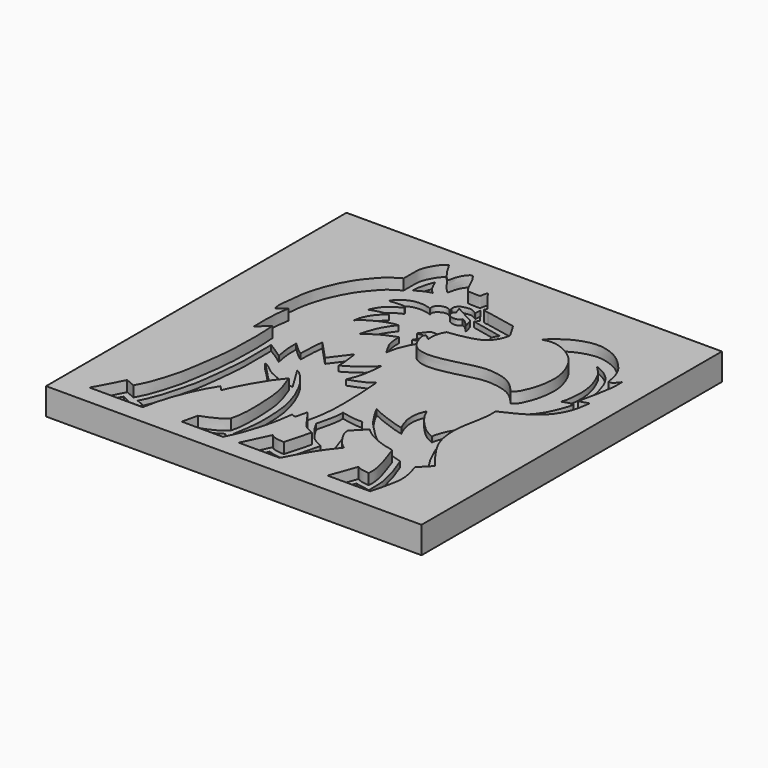
from build123d import *

# Parameters (mm, degrees)
F0_W     = 70
F0_H     = 70
F1_DEPTH = 5
F3_DEPTH = 2
F5_DEPTH = 1


with BuildPart() as f1:
    # F0 (on Top) → F1 (new body)
    with BuildSketch(Plane.XY):
        with Locations((35, 35)):
            Rectangle(F0_W, F0_H)
    extrude(amount=F1_DEPTH)

    # F2 (on face) → F3 (cut)
    with BuildSketch(Plane.XY.offset(5)):
        with BuildLine():
            add(Edge.make_bspline(
                [(21.9445675611, 66.4994418621), (22.135272792, 66.1545466106), (22.5276379381, 65.4449442825), (23.2096851628, 64.3556643856), (24.1875484752, 63.0917913752), (24.746066546, 62.5073244214), (24.9757987878, 62.8666854523), (25.0688827315, 63.8056967795), (25.6479950725, 65.110952337), (26.6196107389, 66.2566464735), (27.2027139759, 65.4415678903), (27.906010691, 64.3383885825), (28.9813621268, 61.5899714603), (29.8997602686, 61.7587426518), (31.5847555917, 61.5656473048), (31.5916341188, 61.8525073235), (31.9127281766, 63.3109758657), (32.1780240525, 62.622427233), (33.6774795781, 60.8407112245), (34.5627240226, 59.6818429336), (35.0018888712, 59.1069348156)],
                knots=[0, 0, 0, 0, 0.0567545631, 0.1167692796, 0.1844378938, 0.2257057522, 0.252289544, 0.302315972, 0.367677872, 0.4245328788, 0.4669126023, 0.5307407196, 0.6161022594, 0.6646861339, 0.7288577772, 0.7547032615, 0.8117135602, 0.8405965096, 0.9209208144, 1, 1, 1, 1], degree=3))
            add(Edge.make_bspline(
                [(19.4208975881, 59.0646974742), (19.4270721721, 59.7106535816), (19.4381218591, 60.8666201835), (19.3630063162, 62.0231640032), (19.7254179036, 63.7850150906), (21.0313269385, 65.8871146656), (21.6857844701, 66.3259279812), (21.9445675611, 66.4994418621)],
                knots=[0, 0, 0, 0, 0.2122797589, 0.3798838786, 0.5911332128, 0.8383274607, 1, 1, 1, 1], degree=3))
            add(Edge.make_bspline(
                [(10.7459481806, 39.90534693), (10.6324803003, 40.2776271106), (10.3694902884, 41.1404789496), (10.8163734324, 43.3479503265), (10.8415925729, 45.1672448725), (11.4818521306, 48.1221347458), (12.5589041058, 51.0977332369), (14.1762227134, 54.2165137907), (16.0927457542, 56.4417768714), (17.2576733436, 57.7801948917), (18.658132453, 58.6117745799), (19.4208975881, 59.0646974742)],
                knots=[0, 0, 0, 0, 0.0800348346, 0.1855006198, 0.2837689427, 0.4064342804, 0.5355647592, 0.6706320469, 0.7921622425, 0.8868004113, 1, 1, 1, 1], degree=3))
            add(Edge.make_bspline(
                [(12.2671257704, 41.1301888525), (11.7600665738, 40.7219082117), (11.2530073772, 40.3136275709), (10.7459481806, 39.90534693)],
                knots=[0, 0, 0, 0, 1.9530025589, 1.9530025589, 1.9530025589, 1.9530025589], degree=3))
            add(Edge.make_bspline(
                [(11.8720140308, 33.563811332), (11.8758869993, 33.9049260555), (11.8859967884, 34.7953536279), (11.771742779, 37.8719061439), (12.0987826487, 40.0229455838), (12.2671257704, 41.1301888525)],
                knots=[0, 0, 0, 0, 0.2315577286, 0.6044458709, 1, 1, 1, 1], degree=3))
            add(Edge.make_bspline(
                [(13.8870803639, 35.4208350182), (13.2153915862, 34.8018271228), (12.5437028085, 34.1828192274), (11.8720140308, 33.563811332)],
                knots=[0, 0, 0, 0, 2.7402608084, 2.7402608084, 2.7402608084, 2.7402608084], degree=3))
            add(Edge.make_bspline(
                [(9.7779259086, 8.1384237856), (10.0566173922, 8.6643415405), (10.6186691277, 9.7249874673), (11.2912982405, 11.3563933679), (12.6311524998, 15.7116494995), (13.1152050215, 19.1898574775), (13.912680283, 24.2160128265), (14.0221937444, 28.4317445059), (14.114366967, 31.5271506813), (13.9658190737, 34.0719491762), (13.8870803639, 35.4208350182)],
                knots=[0, 0, 0, 0, 0.0894477025, 0.1803938742, 0.3230870776, 0.4543958516, 0.6070384967, 0.7468895526, 0.8658372757, 1, 1, 1, 1], degree=3))
            add(Edge.make_bspline(
                [(8.0196829513, 8.8909044862), (8.605763937, 8.640077586), (9.1918449228, 8.3892506858), (9.7779259086, 8.1384237856)],
                knots=[0, 0, 0, 0, 1.91249719, 1.91249719, 1.91249719, 1.91249719], degree=3))
            add(Edge.make_bspline(
                [(5.2143950015, 3.5907232668), (5.5295966136, 4.1399776574), (6.2798980491, 5.4474149992), (7.3810974106, 7.6269766334), (8.0196829513, 8.8909044862)],
                knots=[0, 0, 0, 0, 0.420099972, 1, 1, 1, 1], degree=3))
            add(Edge.make_bspline(
                [(15.1316793635, 3.5907232668), (11.8259179095, 3.5907232668), (8.5201564555, 3.5907232668), (5.2143950015, 3.5907232668)],
                knots=[0, 0, 0, 0, 9.917284362, 9.917284362, 9.917284362, 9.917284362], degree=3))
            add(Edge.make_bspline(
                [(19.8532547802, 15.8628411591), (19.5554210628, 15.3871720898), (18.9752533749, 14.4605885364), (18.2712852625, 13.1670753882), (16.9810136952, 10.3365579247), (15.8027756821, 6.9816773852), (15.3531652213, 4.7098597615), (15.1316793635, 3.5907232668)],
                knots=[0, 0, 0, 0, 0.1593208335, 0.310350354, 0.5287917274, 0.7678746881, 1, 1, 1, 1], degree=3))
            add(Edge.make_bspline(
                [(20.7027457654, 14.8948207498), (20.4195821037, 15.2174942195), (20.1364184419, 15.5401676893), (19.8532547802, 15.8628411591)],
                knots=[0, 0, 0, 0, 1.2879046731, 1.2879046731, 1.2879046731, 1.2879046731], degree=3))
            add(Edge.make_bspline(
                [(26.0564982891, 24.002129212), (25.6146017064, 23.4688698818), (24.5420072506, 22.1745149953), (22.0639043028, 18.1103485243), (21.1341005136, 15.913830024), (20.7027457654, 14.8948207498)],
                knots=[0, 0, 0, 0, 0.2730459275, 0.6627513305, 1, 1, 1, 1], degree=3))
            add(Edge.make_bspline(
                [(27.3487437516, 8.8909044862), (27.4873332305, 9.4662236742), (27.8061018687, 10.7895110954), (27.907951378, 13.9188617622), (27.6944648753, 18.0131966035), (27.2621891506, 20.7241755274), (26.4730917392, 22.8695221082), (26.0564982891, 24.002129212)],
                knots=[0, 0, 0, 0, 0.1572730303, 0.361742537, 0.594924974, 0.7861460446, 1, 1, 1, 1], degree=3))
            add(Edge.make_bspline(
                [(23.0793636292, 6.5153362229), (23.5281547648, 6.671261679), (24.5195202875, 7.0156961141), (26.5636665434, 8.0376590677), (27.1188411997, 8.6410395085), (27.3487437516, 8.8909044862)],
                knots=[0, 0, 0, 0, 0.3264273874, 0.7210678463, 1, 1, 1, 1], degree=3))
            add(Edge.make_bspline(
                [(22.4148705602, 3.5907232668), (22.6363682499, 4.5655942522), (22.8578659395, 5.5404652376), (23.0793636292, 6.5153362229)],
                knots=[0, 0, 0, 0, 2.9991518771, 2.9991518771, 2.9991518771, 2.9991518771], degree=3))
            add(Edge.make_bspline(
                [(30.0897862762, 3.5907232668), (27.5314810375, 3.5907232668), (24.9731757989, 3.5907232668), (22.4148705602, 3.5907232668)],
                knots=[0, 0, 0, 0, 7.6749157161, 7.6749157161, 7.6749157161, 7.6749157161], degree=3))
            add(Edge.make_bspline(
                [(33.5568413138, 15.4214361683), (33.4959111328, 14.9047794685), (33.3506754153, 13.6732550383), (32.7739956771, 10.5418778603), (31.4327060542, 6.3004911645), (30.5058204714, 4.4302046155), (30.0897862762, 3.5907232668)],
                knots=[0, 0, 0, 0, 0.1864017772, 0.4443150406, 0.7505798459, 1, 1, 1, 1], degree=3))
            add(Edge.make_bspline(
                [(34.3470647931, 15.0658357888), (34.0836569667, 15.1843692486), (33.8202491403, 15.3029027085), (33.5568413138, 15.4214361683)],
                knots=[0, 0, 0, 0, 0.8665476196, 0.8665476196, 0.8665476196, 0.8665476196], degree=3))
            add(Edge.make_bspline(
                [(34.8804630339, 17.3574797809), (34.7026636203, 16.5935984502), (34.5248642067, 15.8297171195), (34.3470647931, 15.0658357888)],
                knots=[0, 0, 0, 0, 2.3529015852, 2.3529015852, 2.3529015852, 2.3529015852], degree=3))
            add(Edge.make_bspline(
                [(39.345216006, 12.7346813679), (38.726311174, 13.0074071954), (37.5648023274, 13.5192362278), (36.772512202, 14.8113772346), (35.5891227486, 16.4038468974), (34.8804630339, 17.3574797809)],
                knots=[0, 0, 0, 0, 0.3139276314, 0.5891531333, 1, 1, 1, 1], degree=3))
            add(Edge.make_bspline(
                [(38.0413495004, 7.8550614417), (38.475971669, 9.4816014171), (38.9105938375, 11.1081413925), (39.345216006, 12.7346813679)],
                knots=[0, 0, 0, 0, 5.050817606, 5.050817606, 5.050817606, 5.050817606], degree=3))
            add(Edge.make_bspline(
                [(35.4117043316, 8.5689593107), (35.6270602075, 8.397548907), (36.158243168, 7.9747590237), (37.3391901973, 7.8996934252), (38.0413495004, 7.8550614417)],
                knots=[0, 0, 0, 0, 0.405426928, 1, 1, 1, 1], degree=3))
            add(Edge.make_bspline(
                [(33.0388657749, 3.5907232668), (33.8298119605, 5.2501352814), (34.620758146, 6.909547296), (35.4117043316, 8.5689593107)],
                knots=[0, 0, 0, 0, 5.5148161279, 5.5148161279, 5.5148161279, 5.5148161279], degree=3))
            add(Edge.make_bspline(
                [(40.6938903034, 3.5907232668), (38.1422154605, 3.5907232668), (35.5905406177, 3.5907232668), (33.0388657749, 3.5907232668)],
                knots=[0, 0, 0, 0, 7.6550245285, 7.6550245285, 7.6550245285, 7.6550245285], degree=3))
            add(Edge.make_bspline(
                [(45.9980219603, 11.9591122493), (45.2180201681, 10.9899702614), (43.4741342705, 8.8232149251), (41.6835729449, 5.4533318103), (40.6938903034, 3.5907232668)],
                knots=[0, 0, 0, 0, 0.4472779975, 1, 1, 1, 1], degree=3))
            add(Edge.make_bspline(
                [(43.0378504097, 16.4698529989), (43.0761913278, 16.1276822347), (43.1562914545, 15.4128344177), (43.8028232591, 14.3681420437), (44.6936525903, 12.8519114684), (45.5707250666, 12.2515833405), (45.9980219603, 11.9591122493)],
                knots=[0, 0, 0, 0, 0.2161391903, 0.4515483044, 0.7328023485, 1, 1, 1, 1], degree=3))
            add(Edge.make_bspline(
                [(45.3167147934, 18.7722090632), (44.5570933322, 18.0047570417), (43.797471871, 17.2373050203), (43.0378504097, 16.4698529989)],
                knots=[0, 0, 0, 0, 3.2394546341, 3.2394546341, 3.2394546341, 3.2394546341], degree=3))
            add(Edge.make_bspline(
                [(51.9418641925, 15.7415550202), (51.5344931908, 15.8149471061), (50.6238230491, 15.9790137211), (48.7654418801, 16.5564725968), (46.497164931, 17.6688078499), (45.6783879006, 18.4341426489), (45.3167147934, 18.7722090632)],
                knots=[0, 0, 0, 0, 0.2109476647, 0.4715695003, 0.766579797, 1, 1, 1, 1], degree=3))
            add(Edge.make_bspline(
                [(53.7978447974, 7.9182405025), (53.8296743102, 8.3477472284), (53.9051607624, 9.3663597052), (53.2310549678, 12.041551621), (52.6722596338, 13.5750410605), (52.1963745735, 14.9866211007), (51.9418641925, 15.7415550202)],
                knots=[0, 0, 0, 0, 0.2119132842, 0.5025707452, 0.7339674646, 1, 1, 1, 1], degree=3))
            add(Edge.make_bspline(
                [(51.4250099659, 8.57605692), (51.5892565686, 8.4583069334), (52.0232406902, 8.1471794966), (53.1176364857, 8.0059931488), (53.7978447974, 7.9182405025)],
                knots=[0, 0, 0, 0, 0.3784622397, 1, 1, 1, 1], degree=3))
            add(Edge.make_bspline(
                [(49.6160127223, 3.5719545558), (50.2190118035, 5.2399886772), (50.8220108847, 6.9080227986), (51.4250099659, 8.57605692)],
                knots=[0, 0, 0, 0, 5.3210442113, 5.3210442113, 5.3210442113, 5.3210442113], degree=3))
            add(Edge.make_bspline(
                [(57.556796819, 3.5719545558), (54.9098687867, 3.5719545558), (52.2629407545, 3.5719545558), (49.6160127223, 3.5719545558)],
                knots=[0, 0, 0, 0, 7.9407840967, 7.9407840967, 7.9407840967, 7.9407840967], degree=3))
            add(Edge.make_bspline(
                [(57.932689786, 13.6271454394), (58.0364438064, 13.2550536654), (58.2724326342, 12.4087298204), (58.796636452, 10.3746590068), (58.720592069, 8.0271851657), (57.9869999204, 5.2188542369), (57.556796819, 3.5719545558)],
                knots=[0, 0, 0, 0, 0.1790985166, 0.4073601079, 0.652456041, 1, 1, 1, 1], degree=3))
            add(Edge.make_bspline(
                [(59.9296316504, 15.6710743904), (59.2639843623, 14.9897647401), (58.5983370741, 14.3084550897), (57.932689786, 13.6271454394)],
                knots=[0, 0, 0, 0, 2.8575203179, 2.8575203179, 2.8575203179, 2.8575203179], degree=3))
            add(Edge.make_bspline(
                [(56.0767054558, 34.6537716687), (56.1037657765, 34.0935251386), (56.1656137518, 32.8130483161), (55.5917869206, 29.9175955463), (55.0293069096, 26.8461806938), (55.1547899932, 24.2181129724), (55.7363927191, 21.7583758857), (57.3348670153, 18.9636220975), (59.0229343564, 16.8216003596), (59.9296316504, 15.6710743904)],
                knots=[0, 0, 0, 0, 0.1127145172, 0.2576157443, 0.408109181, 0.5437569599, 0.6757953942, 0.8258627297, 1, 1, 1, 1], degree=3))
            add(Edge.make_bspline(
                [(65.2156546712, 45.2023260295), (65.1476431438, 44.6532263076), (64.9946180104, 43.4295677669), (64.2776165324, 40.7218294158), (61.7531110343, 37.3140766637), (58.1687738372, 35.6206225561), (56.0767054558, 34.6537716687)],
                knots=[0, 0, 0, 0, 0.1758264711, 0.3951726324, 0.6634927349, 1, 1, 1, 1], degree=3))
            add(Edge.make_bspline(
                [(63.4301528335, 44.6384847164), (64.0253201127, 44.8264318208), (64.6204873919, 45.0143789252), (65.2156546712, 45.2023260295)],
                knots=[0, 0, 0, 0, 1.8724139069, 1.8724139069, 1.8724139069, 1.8724139069], degree=3))
            add(Edge.make_bspline(
                [(64.6923780441, 53.3533804119), (64.7330781369, 52.7705758396), (64.848171195, 51.1225019449), (63.9868724735, 47.18413563), (63.4301528335, 44.6384847164)],
                knots=[0, 0, 0, 0, 0.3536276948, 1, 1, 1, 1], degree=3))
            add(Edge.make_bspline(
                [(63.0526691675, 52.2668249905), (63.2461443931, 52.2231003847), (63.7483343836, 52.1096075108), (64.3329767522, 52.8798709693), (64.6923780441, 53.3533804119)],
                knots=[0, 0, 0, 0, 0.3852630066, 1, 1, 1, 1], degree=3))
            add(Edge.make_bspline(
                [(47.1889637411, 56.5142668784), (47.340478448, 56.6916456399), (47.7419277208, 57.1616236128), (49.4795732667, 58.5834083484), (51.135778296, 59.4979994802), (53.0746158003, 60.172972404), (55.3212025498, 60.4343149384), (58.2362348112, 59.5268192721), (59.9950863914, 58.1322995394), (61.8572806973, 56.2727769132), (62.7303444533, 54.2015025054), (62.9476834664, 52.8969767175), (63.0526691675, 52.2668249905)],
                knots=[0, 0, 0, 0, 0.0624706729, 0.1655206067, 0.2629666222, 0.3606051041, 0.4648550409, 0.5840222145, 0.6887970004, 0.8000845161, 0.9034307419, 1, 1, 1, 1], degree=3))
            add(Edge.make_bspline(
                [(53.8403168321, 40.9163944423), (54.1100432164, 41.1147902188), (54.6965606199, 41.5461999081), (55.3012699167, 42.9017236039), (56.0012807217, 44.5792086381), (56.4480565788, 47.558811328), (56.2353864422, 50.2345065662), (54.7788702132, 53.6597658872), (52.7565594795, 55.4861887178), (50.4329162653, 56.6950043592), (48.5520773999, 56.8904088275), (47.6209792327, 56.6334786169), (47.1889637411, 56.5142668784)],
                knots=[0, 0, 0, 0, 0.0692538536, 0.1505918321, 0.243689316, 0.3609834703, 0.4746980519, 0.6043999783, 0.717664649, 0.8272290637, 0.9198368941, 1, 1, 1, 1], degree=3))
            add(Edge.make_bspline(
                [(33.1579186022, 47.0795817673), (33.0630923544, 46.9693470329), (32.7871099386, 46.6485197407), (33.3063961185, 44.8785341509), (34.2890906424, 43.1571268265), (36.7437165903, 42.2466612629), (40.6388820073, 42.8539654274), (44.6843133948, 43.9928756428), (46.996725346, 44.3728445603), (50.4373260582, 43.9185189918), (52.585727711, 42.4493317842), (53.4426592199, 41.402277982), (53.8403168321, 40.9163944423)],
                knots=[0, 0, 0, 0, 0.0445907804, 0.1297770561, 0.2214058076, 0.3215367058, 0.4520234466, 0.5854358478, 0.6859353353, 0.8049489134, 0.9094868743, 1, 1, 1, 1], degree=3))
            add(Edge.make_bspline(
                [(34.2044979334, 46.2821871042), (33.8556381563, 46.5479853253), (33.5067783793, 46.8137835463), (33.1579186022, 47.0795817673)],
                knots=[0, 0, 0, 0, 1.315738023, 1.315738023, 1.315738023, 1.315738023], degree=3))
            add(Edge.make_bspline(
                [(34.8856039345, 49.7043393552), (34.7392975543, 49.4485529169), (34.4168505042, 48.8848209567), (34.0984430483, 47.549904695), (34.1694457576, 46.7011801553), (34.2044979334, 46.2821871042)],
                knots=[0, 0, 0, 0, 0.2960551768, 0.6524808988, 1, 1, 1, 1], degree=3))
            add(Edge.make_bspline(
                [(42.7930913866, 54.6382106841), (42.7396036963, 54.3081393729), (42.6203209005, 53.5720479733), (41.8643156899, 52.094817417), (40.5183008729, 50.8633198412), (37.7812837988, 50.0863679097), (35.8618336282, 49.8331338478), (34.8856039345, 49.7043393552)],
                knots=[0, 0, 0, 0, 0.1464275349, 0.3265477656, 0.5165825025, 0.7541345315, 1, 1, 1, 1], degree=3))
            add(Edge.make_bspline(
                [(41.2813648582, 57.2297386825), (41.785273701, 56.3658960164), (42.2891825438, 55.5020533502), (42.7930913866, 54.6382106841)],
                knots=[0, 0, 0, 0, 3.0002224023, 3.0002224023, 3.0002224023, 3.0002224023], degree=3))
            add(Edge.make_bspline(
                [(35.6829985976, 58.342769742), (37.5491206845, 57.9717593888), (39.4152427713, 57.6007490357), (41.2813648582, 57.2297386825)],
                knots=[0, 0, 0, 0, 5.7079368362, 5.7079368362, 5.7079368362, 5.7079368362], degree=3))
            add(Edge.make_bspline(
                [(35.0018888712, 59.1069348156), (34.8548072928, 58.9041564209), (34.5202401416, 58.442895462), (35.2654154203, 58.3787280411), (35.6829985976, 58.342769742)],
                knots=[0, 0, 0, 0, 0.4396175112, 1, 1, 1, 1], degree=3))
        make_face()
    extrude(amount=-F3_DEPTH, mode=Mode.SUBTRACT)

    # F4 (on face) → F5 (cut)
    with BuildSketch(Plane.XY.offset(3)):
        with BuildLine():
            add(Edge.make_bspline(
                [(21.405916661, 63.9623478055), (21.3057949806, 63.7303627414), (21.1001125555, 63.2537901312), (20.8146743231, 62.5119776258), (20.5857696719, 61.2736598498), (20.4646512607, 60.7694115943), (20.4369705667, 60.1398882364), (20.4210821539, 59.7785487771)],
                knots=[0, 0, 0, 0, 0.1879808313, 0.386173635, 0.6259433973, 0.7852956386, 1, 1, 1, 1], degree=3))
            add(Edge.make_bspline(
                [(20.4210821539, 59.7785487771), (20.5929248415, 59.9208055256), (20.9917028954, 60.2509264642), (22.1372559788, 60.8108952507), (22.8576347029, 61.0185939912), (23.2079531997, 61.1195974052)],
                knots=[0, 0, 0, 0, 0.2800533268, 0.6498916086, 1, 1, 1, 1], degree=3))
            add(Edge.make_bspline(
                [(23.2079531997, 61.1195974052), (23.0344814923, 61.2509311765), (22.6321161279, 61.5555581473), (21.9431283522, 62.5828054536), (21.5916240239, 63.485457268), (21.405916661, 63.9623478055)],
                knots=[0, 0, 0, 0, 0.2633360036, 0.6108044281, 1, 1, 1, 1], degree=3))
        make_face()
        with BuildLine():
            add(Edge.make_bspline(
                [(32.0164337754, 60.209363699), (32.0394821465, 60.5155738691), (32.0625305176, 60.8217840393), (32.0855788887, 61.1279942095)],
                knots=[0, 0, 0, 0, 0.9212291038, 0.9212291038, 0.9212291038, 0.9212291038], degree=3))
            add(Edge.make_bspline(
                [(31.9884233177, 60.012999922), (31.9977601369, 60.0784545143), (32.0070969562, 60.1439091067), (32.0164337754, 60.209363699)],
                knots=[0, 0, 0, 0, 0.1983515027, 0.1983515027, 0.1983515027, 0.1983515027], degree=3))
            add(Edge.make_bspline(
                [(28.5904705524, 58.6992576718), (28.5293315743, 58.7566417342), (28.3815665157, 58.8953316439), (28.3822834086, 59.4613833148), (28.7073221868, 60.0074226893), (29.1201832027, 60.3517532819), (29.9396433671, 60.5158137383), (30.8484124583, 60.6505049249), (31.477530806, 60.2763520094), (31.8240147546, 60.0977483521), (31.9884233177, 60.012999922)],
                knots=[0, 0, 0, 0, 0.0824003013, 0.1991509464, 0.326974122, 0.4426286819, 0.5893274465, 0.7432616749, 0.878176235, 1, 1, 1, 1], degree=3))
            add(Edge.make_bspline(
                [(28.4324251115, 58.4325566888), (28.4851069252, 58.5214570165), (28.5377887388, 58.6103573442), (28.5904705524, 58.6992576718)],
                knots=[0, 0, 0, 0, 0.3100125413, 0.3100125413, 0.3100125413, 0.3100125413], degree=3))
            add(Edge.make_bspline(
                [(25.9432271123, 57.0397935808), (25.8934037463, 57.3189785831), (25.7915332943, 57.8898091926), (26.5588891367, 58.4975850255), (27.1856713412, 58.8127190977), (28.0701083368, 58.756736653), (28.3237010027, 58.529836694), (28.4324251115, 58.4325566888)],
                knots=[0, 0, 0, 0, 0.2094562895, 0.4282610471, 0.628362213, 0.8406657895, 1, 1, 1, 1], degree=3))
            add(Edge.make_bspline(
                [(19.7696182877, 55.1531352103), (19.9031202545, 55.3901002873), (20.1937343985, 55.9059384034), (21.1594639771, 56.6164149022), (22.0362652688, 57.1687885035), (23.2937245525, 57.4457411536), (24.6809070576, 57.4449558585), (25.5258581068, 57.1737549928), (25.9432271123, 57.0397935808)],
                knots=[0, 0, 0, 0, 0.1422055549, 0.3095605751, 0.4674714656, 0.6408163633, 0.8225789324, 1, 1, 1, 1], degree=3))
            add(Edge.make_bspline(
                [(22.9305066168, 54.8666790128), (22.910115455, 54.9941227874), (22.8325884456, 55.4786628443), (21.0692000729, 55.2912527113), (19.7696182877, 55.1531352103)],
                knots=[0, 0, 0, 0, 0.2630201007, 1, 1, 1, 1], degree=3))
            add(Edge.make_bspline(
                [(19.078174606, 51.0834939778), (19.1904093303, 51.2937627903), (19.4797913014, 51.8359123235), (20.525543554, 53.6937993966), (22.0907097874, 54.4571173866), (22.9305066168, 54.8666790128)],
                knots=[0, 0, 0, 0, 0.2269778747, 0.5852315772, 1, 1, 1, 1], degree=3))
            add(Edge.make_bspline(
                [(22.468270734, 51.7963021994), (22.2436530199, 51.8081533462), (21.7277479251, 51.8353732253), (20.5360891137, 51.5713146168), (19.5856627881, 51.2533003745), (19.078174606, 51.0834939778)],
                knots=[0, 0, 0, 0, 0.2643674105, 0.6072027515, 1, 1, 1, 1], degree=3))
            add(Edge.make_bspline(
                [(19.6553729475, 47.1801199019), (19.6630065391, 47.3411319976), (19.6834048737, 47.7713853781), (20.1540381802, 49.2729002809), (21.2688967488, 50.8143304065), (22.0845127077, 51.4821053252), (22.468270734, 51.7963021994)],
                knots=[0, 0, 0, 0, 0.1607044, 0.429431162, 0.7315398642, 1, 1, 1, 1], degree=3))
            add(Edge.make_bspline(
                [(25.6579481065, 50.0404424965), (25.4435286304, 50.0337200659), (24.9273345358, 50.0175364659), (23.5631910073, 49.6277402909), (22.1647285696, 49.0183141737), (20.8053684683, 48.2166308874), (20.0142889074, 47.6454648429), (19.7638404286, 47.3207511338), (19.6553729475, 47.1801199019)],
                knots=[0, 0, 0, 0, 0.1336896806, 0.3218449409, 0.5233916258, 0.7246552396, 0.8807501139, 1, 1, 1, 1], degree=3))
            add(Edge.make_bspline(
                [(22.9504238814, 44.2250557244), (22.9826835883, 44.4399179386), (23.0621834889, 44.9640329457), (23.6025322157, 46.4317382959), (24.0700825894, 47.8171142223), (25.0535945107, 49.2393915743), (25.6579481065, 50.0404424965)],
                knots=[0, 0, 0, 0, 0.1715917454, 0.4194634162, 0.665883488, 1, 1, 1, 1], degree=3))
            add(Edge.make_bspline(
                [(28.0543733388, 47.1617393196), (27.7404517427, 47.0290313062), (26.9961342521, 46.7143766387), (25.007132585, 45.9590900235), (23.6668953013, 44.8291208573), (22.9504238814, 44.2250557244)],
                knots=[0, 0, 0, 0, 0.2534323931, 0.6008957818, 1, 1, 1, 1], degree=3))
            add(Edge.make_bspline(
                [(29.6636726707, 42.2751046717), (29.524059402, 42.462529243), (29.2077163638, 42.8872056286), (28.649320766, 44.003674939), (28.1645333532, 44.939365656), (28.0953779141, 46.3345109579), (28.0543733388, 47.1617393196)],
                knots=[0, 0, 0, 0, 0.1936843054, 0.4388600182, 0.6672813167, 1, 1, 1, 1], degree=3))
            add(Edge.make_bspline(
                [(32.2362072766, 48.4714992344), (32.0737830287, 48.2046570548), (31.687904792, 47.5707086691), (30.7043085828, 45.8946926875), (29.9816128369, 44.0728987123), (29.7678562822, 42.8642113519), (29.6636726707, 42.2751046717)],
                knots=[0, 0, 0, 0, 0.195935744, 0.4654929321, 0.7394845892, 1, 1, 1, 1], degree=3))
            add(Edge.make_bspline(
                [(30.080685392, 47.649230808), (30.8070244888, 47.9037426412), (31.5098681798, 48.2169874012), (32.2362072766, 48.4714992344)],
                knots=[0, 0, 0, 0, 2.3070327176, 2.3070327176, 2.3070327176, 2.3070327176], degree=3))
            add(Edge.make_bspline(
                [(31.4198099077, 49.8399920762), (30.9656032672, 49.1293159624), (30.5348920325, 48.3599069218), (30.080685392, 47.649230808)],
                knots=[0, 0, 0, 0, 2.5676232984, 2.5676232984, 2.5676232984, 2.5676232984], degree=3))
            add(Edge.make_bspline(
                [(29.3465126306, 49.7166514397), (30.0376117229, 49.7577649852), (30.7287108153, 49.7988785307), (31.4198099077, 49.8399920762)],
                knots=[0, 0, 0, 0, 2.0769628094, 2.0769628094, 2.0769628094, 2.0769628094], degree=3))
            add(Edge.make_bspline(
                [(30.6092854589, 51.3377003372), (30.2001082649, 50.8325907091), (29.7556898246, 50.2217610677), (29.3465126306, 49.7166514397)],
                knots=[0, 0, 0, 0, 2.0548466473, 2.0548466473, 2.0548466473, 2.0548466473], degree=3))
            add(Edge.make_bspline(
                [(38.7110859156, 51.6062304378), (36.0104857634, 51.5167204042), (33.3098856111, 51.4272103707), (30.6092854589, 51.3377003372)],
                knots=[0, 0, 0, 0, 8.1062493827, 8.1062493827, 8.1062493827, 8.1062493827], degree=3))
            add(Edge.make_bspline(
                [(41.107416153, 54.1611388326), (41.0209156287, 53.9628149221), (40.8428880349, 53.5546424992), (40.438636487, 52.9423007403), (39.6360461216, 52.1903789702), (39.0202997242, 51.801511047), (38.7110859156, 51.6062304378)],
                knots=[0, 0, 0, 0, 0.2146031838, 0.441676958, 0.7196228918, 1, 1, 1, 1], degree=3))
            add(Edge.make_bspline(
                [(41.3069948554, 53.1621836126), (41.1836542189, 53.4499771893), (41.1750413477, 53.8445723553), (41.107416153, 54.1611388326)],
                knots=[0, 0, 0, 0, 1.0186968097, 1.0186968097, 1.0186968097, 1.0186968097], degree=3))
            add(Edge.make_bspline(
                [(40.9261882305, 54.8358596861), (41.0105356867, 54.9621358797), (41.1469180627, 55.2991326321), (41.3050524682, 55.7739651845), (41.5752219005, 55.3319000063), (41.9768366926, 54.5249468442), (41.7747226703, 53.7953761449), (41.4816787648, 53.3143257027), (41.3069948554, 53.1621836126)],
                knots=[0, 0, 0, 0, 0.1609471201, 0.2887249537, 0.4148802016, 0.6231813009, 0.8100322057, 1, 1, 1, 1], degree=3))
            add(Edge.make_bspline(
                [(39.4840352237, 54.2925819755), (39.4703671304, 54.4289388798), (39.4594054254, 54.7372924367), (39.6079761323, 55.3623886926), (39.9865452551, 55.6490266752), (40.4820928967, 55.6921066018), (40.8353072486, 55.2676367934), (40.8749854863, 54.9614575888), (40.9261882305, 54.8358596861)],
                knots=[0, 0, 0, 0, 0.1604991232, 0.3498470481, 0.5107467056, 0.6705289734, 0.8405226532, 1, 1, 1, 1], degree=3))
            add(Edge.make_bspline(
                [(39.3753759563, 56.5842241049), (39.2504583628, 56.438829553), (38.995015749, 56.1415138321), (38.6864186332, 55.550842478), (38.7124750742, 55.081357489), (39.0178817865, 54.6047760553), (39.3274321597, 54.3974627842), (39.4840352237, 54.2925819755)],
                knots=[0, 0, 0, 0, 0.2065096548, 0.4222893234, 0.6014952817, 0.7983944931, 1, 1, 1, 1], degree=3))
            add(Edge.make_bspline(
                [(33.5672460496, 57.8189454973), (35.5032893519, 57.3843245705), (37.4393326541, 57.0188450317), (39.3753759563, 56.5842241049)],
                knots=[0, 0, 0, 0, 5.9379213475, 5.9379213475, 5.9379213475, 5.9379213475], degree=3))
            add(Edge.make_bspline(
                [(34.080889076, 58.5498958826), (33.9360150198, 58.3523412546), (33.7121201058, 58.0165001253), (33.5672460496, 57.8189454973)],
                knots=[0, 0, 0, 0, 0.8933742913, 0.8933742913, 0.8933742913, 0.8933742913], degree=3))
            add(Edge.make_bspline(
                [(32.0855788887, 61.1279942095), (32.7506822844, 60.2686281006), (33.4157856802, 59.4092619916), (34.080889076, 58.5498958826)],
                knots=[0, 0, 0, 0, 3.2600389149, 3.2600389149, 3.2600389149, 3.2600389149], degree=3))
        make_face()
        with BuildLine():
            add(Edge.make_bspline(
                [(29.3386280537, 59.5331080258), (29.4588077813, 59.174216042), (29.578987509, 58.8153240581), (29.6991672367, 58.4564320743)],
                knots=[0, 0, 0, 0, 1.1354380683, 1.1354380683, 1.1354380683, 1.1354380683], degree=3))
            add(Edge.make_bspline(
                [(29.4966734946, 59.5479272306), (29.4439916809, 59.5429874957), (29.3913098673, 59.5380477607), (29.3386280537, 59.5331080258)],
                knots=[0, 0, 0, 0, 0.1587386853, 0.1587386853, 0.1587386853, 0.1587386853], degree=3))
            add(Edge.make_bspline(
                [(32.9193212092, 57.6760917902), (31.7784386377, 58.300036937), (30.6375560661, 58.9239820838), (29.4966734946, 59.5479272306)],
                knots=[0, 0, 0, 0, 3.9010620726, 3.9010620726, 3.9010620726, 3.9010620726], degree=3))
            add(Edge.make_bspline(
                [(33.3490036428, 56.1005845666), (33.3555010738, 56.173885493), (33.3706951231, 56.3452975321), (33.2195318288, 56.7393830942), (33.110351906, 57.2615112884), (32.9810756729, 57.5420704156), (32.9193212092, 57.6760917902)],
                knots=[0, 0, 0, 0, 0.1898944437, 0.444062516, 0.7344320732, 1, 1, 1, 1], degree=3))
            add(Edge.make_bspline(
                [(31.75374493, 57.335305959), (31.8377820922, 57.3133131689), (32.0352531125, 57.2616343808), (32.4450183077, 57.034793388), (33.1904648936, 56.3220396391), (33.3092847257, 56.1560659912), (33.3490036428, 56.1005845666)],
                knots=[0, 0, 0, 0, 0.1889603655, 0.4440201835, 0.8141478924, 1, 1, 1, 1], degree=3))
            add(Edge.make_bspline(
                [(29.3238107115, 57.7452331781), (29.3381198994, 57.6474419287), (29.3671216222, 57.4420919278), (29.5353273367, 57.1432355732), (30.074898237, 56.7754347843), (30.8988220144, 56.7311196941), (31.3739358378, 56.8722272014), (31.6229803479, 57.1721919405), (31.75374493, 57.335305959)],
                knots=[0, 0, 0, 0, 0.1279213057, 0.2613590398, 0.4478366163, 0.6594606363, 0.8208357459, 1, 1, 1, 1], degree=3))
            add(Edge.make_bspline(
                [(29.6991672367, 58.4564320743), (29.6237489235, 58.3539669673), (29.4302016722, 58.1968871063), (29.3246317016, 58.0121636119), (29.3075991653, 57.8288350789), (29.3238107115, 57.7452331781)],
                knots=[0, 0, 0, 0, 0.3877060703, 0.678378466, 1, 1, 1, 1], degree=3))
        make_face(mode=Mode.SUBTRACT)
        with BuildLine():
            add(Edge.make_bspline(
                [(55.6251555681, 37.946626544), (56.0168456721, 38.179097842), (56.8882092459, 38.6962592891), (58.4781174221, 40.3395977424), (59.8676445839, 42.2488214865), (61.3457796391, 46.0490091575), (61.0944520572, 46.4794969456), (61.0286481678, 46.5922094882)],
                knots=[0, 0, 0, 0, 0.1723143509, 0.3833348024, 0.61832326, 0.9000674189, 1, 1, 1, 1], degree=3))
            add(Edge.make_bspline(
                [(55.9572763741, 35.7843525708), (55.919160234, 36.0749942681), (55.8361591936, 36.7078905475), (55.6992127838, 37.5118598966), (55.6251555681, 37.946626544)],
                knots=[0, 0, 0, 0, 0.4592248475, 1, 1, 1, 1], degree=3))
            add(Edge.make_bspline(
                [(64.0035867691, 43.6909645796), (63.9565266422, 43.436441895), (63.8315421198, 42.7604684481), (62.8409182445, 40.4776904936), (61.1564291603, 38.6930320134), (59.5460729454, 37.5370101369), (57.6913153587, 36.5984954354), (56.528573606, 36.0525804301), (55.9572763741, 35.7843525708)],
                knots=[0, 0, 0, 0, 0.1135701308, 0.301624953, 0.4921206867, 0.6608577583, 0.8333671055, 1, 1, 1, 1], degree=3))
            add(Edge.make_bspline(
                [(61.754539609, 42.9925024509), (62.5042219957, 43.2253231605), (63.2539043824, 43.45814387), (64.0035867691, 43.6909645796)],
                knots=[0, 0, 0, 0, 2.3550079562, 2.3550079562, 2.3550079562, 2.3550079562], degree=3))
            add(Edge.make_bspline(
                [(63.1933733821, 50.899118185), (63.1895387923, 50.5964693903), (63.180671947, 49.8966448562), (63.2589092311, 48.0790366784), (62.9202866544, 46.8672686586), (62.2104363699, 44.5078340749), (61.754539609, 42.9925024509)],
                knots=[0, 0, 0, 0, 0.183322674, 0.4239029106, 0.6300053648, 1, 1, 1, 1], degree=3))
            add(Edge.make_bspline(
                [(61.754539609, 49.6698208153), (62.2341508667, 50.0795866052), (62.7137621244, 50.4893523951), (63.1933733821, 50.899118185)],
                knots=[0, 0, 0, 0, 1.8924625888, 1.8924625888, 1.8924625888, 1.8924625888], degree=3))
            add(Edge.make_bspline(
                [(56.4218200743, 57.8399114311), (56.5330962048, 57.8252064663), (56.8584296754, 57.7822141622), (58.2385082719, 57.0511716539), (59.0581226902, 56.4460055456), (59.9589948058, 55.4962925139), (60.6285473895, 54.3047345612), (61.0430828336, 53.2299843327), (61.6095279932, 51.4821834052), (61.7060260181, 50.2761461544), (61.754539609, 49.6698208153)],
                knots=[0, 0, 0, 0, 0.0712991155, 0.2084543072, 0.3247994869, 0.4503473674, 0.5795071062, 0.6993778011, 0.8488646544, 1, 1, 1, 1], degree=3))
            add(Edge.make_bspline(
                [(59.1849721968, 46.0046157241), (59.2807971412, 46.2606903841), (59.4741444, 46.7773756158), (59.5838866421, 47.6189759876), (59.7250503443, 48.8153302813), (59.7939213371, 50.1629902666), (59.6473981896, 51.6739960672), (59.3552756422, 52.9566031764), (58.9579752598, 54.15128616), (58.3935759018, 55.4343150045), (57.7951579726, 56.4986460361), (56.9134926154, 57.3597212566), (56.4218200743, 57.8399114311)],
                knots=[0, 0, 0, 0, 0.0801490406, 0.1617177803, 0.2588286446, 0.3630742919, 0.472588596, 0.5744224778, 0.6743714038, 0.778575632, 0.876519724, 1, 1, 1, 1], degree=3))
            add(Edge.make_bspline(
                [(61.0286481678, 46.5922094882), (60.4140895108, 46.3963449001), (59.7995308538, 46.2004803121), (59.1849721968, 46.0046157241)],
                knots=[0, 0, 0, 0, 1.9350471616, 1.9350471616, 1.9350471616, 1.9350471616], degree=3))
        make_face()
        with BuildLine():
            add(Edge.make_bspline(
                [(8.5047176108, 7.5137009844), (7.9803057015, 6.5581483456), (7.4558937922, 5.6025957068), (6.9314818829, 4.647043068)],
                knots=[0, 0, 0, 0, 3.2699844442, 3.2699844442, 3.2699844442, 3.2699844442], degree=3))
            add(Edge.make_bspline(
                [(6.9314818829, 4.647043068), (7.3080289488, 4.647043068), (7.6845760147, 4.647043068), (8.0611230806, 4.647043068)],
                knots=[0, 0, 0, 0, 1.1296411976, 1.1296411976, 1.1296411976, 1.1296411976], degree=3))
            add(Edge.make_bspline(
                [(8.0611230806, 4.647043068), (8.3767582352, 5.1398766227), (8.6923933898, 5.6327101775), (9.0080285445, 6.1255437322)],
                knots=[0, 0, 0, 0, 1.7557318052, 1.7557318052, 1.7557318052, 1.7557318052], degree=3))
            add(Edge.make_bspline(
                [(9.0080285445, 6.1255437322), (9.2073768998, 5.6327101775), (9.4067252552, 5.1398766227), (9.6060736105, 4.647043068)],
                knots=[0, 0, 0, 0, 1.5948736988, 1.5948736988, 1.5948736988, 1.5948736988], degree=3))
            add(Edge.make_bspline(
                [(9.6060736105, 4.647043068), (9.7389724106, 4.647043068), (9.8718712106, 4.647043068), (10.0047700107, 4.647043068)],
                knots=[0, 0, 0, 0, 0.3986964002, 0.3986964002, 0.3986964002, 0.3986964002], degree=3))
            add(Edge.make_bspline(
                [(10.0047700107, 4.647043068), (10.3093301877, 5.1398766227), (10.6138903648, 5.6327101775), (10.9184505418, 6.1255437322)],
                knots=[0, 0, 0, 0, 1.7380380683, 1.7380380683, 1.7380380683, 1.7380380683], degree=3))
            add(Edge.make_bspline(
                [(10.9184505418, 6.1255437322), (11.1620984972, 5.6327101775), (11.4057464525, 5.1398766227), (11.6493944079, 4.647043068)],
                knots=[0, 0, 0, 0, 1.6493159641, 1.6493159641, 1.6493159641, 1.6493159641], degree=3))
            add(Edge.make_bspline(
                [(11.6493944079, 4.647043068), (12.4855504061, 4.647043068), (13.3217064043, 4.647043068), (14.1578624025, 4.647043068)],
                knots=[0, 0, 0, 0, 2.5084679946, 2.5084679946, 2.5084679946, 2.5084679946], degree=3))
            add(Edge.make_bspline(
                [(14.1578624025, 4.647043068), (14.2746280278, 5.0656324866), (14.5182932319, 5.9391402152), (14.8021941483, 7.3678053739), (15.7779366123, 10.1645087915), (16.3271473158, 11.4804223881), (16.9539795511, 13.7416324956), (18.9727949499, 17.6919103791), (19.3115883724, 18.1808034809), (19.4073710591, 18.3190219104)],
                knots=[0, 0, 0, 0, 0.1163118849, 0.2427183438, 0.4174578761, 0.5394875606, 0.6997603789, 0.9151171314, 1, 1, 1, 1], degree=3))
            add(Edge.make_bspline(
                [(19.4073710591, 18.3190219104), (19.7285438577, 17.9092505326), (20.0497166564, 17.4994791547), (20.3708894551, 17.0897077769)],
                knots=[0, 0, 0, 0, 1.5619157911, 1.5619157911, 1.5619157911, 1.5619157911], degree=3))
            add(Edge.make_bspline(
                [(20.3708894551, 17.0897077769), (20.4785409654, 17.4515235637), (20.6976428206, 18.1879229875), (21.1405754711, 19.2956157006), (22.0864249607, 21.5151660771), (22.7390137605, 22.8663635624), (23.0620931834, 23.5353056341)],
                knots=[0, 0, 0, 0, 0.2026173756, 0.4123847664, 0.7090872681, 1, 1, 1, 1], degree=3))
            add(Edge.make_bspline(
                [(23.0620931834, 23.5353056341), (22.4746505141, 24.0442920312), (21.3020051973, 25.0599815289), (19.944667525, 26.6070143168), (18.6512945851, 27.8951825531), (18.0178284645, 28.5353437066)],
                knots=[0, 0, 0, 0, 0.3293500271, 0.6421887805, 1, 1, 1, 1], degree=3))
            add(Edge.make_bspline(
                [(18.0178284645, 28.5353437066), (18.4248313308, 28.3858329058), (18.9304961982, 28.1344122017), (20.3599930679, 26.8317781817), (22.3882670881, 25.9975111649), (24.2188383401, 25.3701579682), (25.2901987856, 25.2627136106), (25.7865209132, 25.2131540328)],
                knots=[0, 0, 0, 0, 0.1555434045, 0.3629898629, 0.5944857169, 0.8086485468, 1, 1, 1, 1], degree=3))
            add(Edge.make_bspline(
                [(25.7865209132, 25.2131540328), (25.6465246876, 25.4222524179), (25.298949914, 25.9413901557), (24.4034336591, 27.5719796556), (23.5343166346, 28.939083672), (23.0620931834, 29.6818818897)],
                knots=[0, 0, 0, 0, 0.2354652806, 0.5845999864, 1, 1, 1, 1], degree=3))
            add(Edge.make_bspline(
                [(23.0620931834, 29.6818818897), (23.17964333, 29.6498781158), (23.5094746907, 29.5418366406), (24.5892749729, 28.4989358372), (25.8387527267, 26.9839268764), (26.716618528, 25.4047695379), (27.6210447529, 23.5258952747), (28.307885844, 21.3843766094), (28.8991496674, 18.7115850496), (28.9681596904, 15.5318794085), (29.0954722183, 13.0467203746), (28.5976322941, 10.0465014422), (28.307562694, 8.2984212786)],
                knots=[0, 0, 0, 0, 0.0437504447, 0.125262757, 0.221864629, 0.3130342692, 0.41011276, 0.5115102477, 0.6243625204, 0.7438313501, 0.8507697944, 1, 1, 1, 1], degree=3))
            add(Edge.make_bspline(
                [(28.307562694, 8.2984212786), (28.9331550399, 7.6662437059), (29.5587473859, 7.0340661332), (30.1843397319, 6.4018885605)],
                knots=[0, 0, 0, 0, 2.6681694851, 2.6681694851, 2.6681694851, 2.6681694851], degree=3))
            add(Edge.make_bspline(
                [(30.1843397319, 6.4018885605), (30.327743874, 6.7753603345), (30.7194711353, 7.79554757), (31.9523384269, 11.8894955945), (32.3334309503, 15.1859041866), (32.5352475047, 16.9315952808)],
                knots=[0, 0, 0, 0, 0.213630343, 0.5835593591, 1, 1, 1, 1], degree=3))
            add(Edge.make_bspline(
                [(32.5352475047, 16.9315952808), (32.8710923592, 16.7735510816), (33.2069372137, 16.6155068825), (33.5427820683, 16.4574626833)],
                knots=[0, 0, 0, 0, 1.113520371, 1.113520371, 1.113520371, 1.113520371], degree=3))
            add(Edge.make_bspline(
                [(33.5427820683, 16.4574626833), (33.6963438537, 16.9404875138), (34.0764837603, 18.1362082683), (34.8052795905, 21.8609086279), (34.8895596048, 25.198660416), (34.8380081709, 29.5064143513), (34.5943427012, 32.4005896429), (34.471295774, 33.8620990515)],
                knots=[0, 0, 0, 0, 0.1411251089, 0.3493530995, 0.5504482971, 0.7729840189, 1, 1, 1, 1], degree=3))
            add(Edge.make_bspline(
                [(34.471295774, 33.8620990515), (34.1560772124, 33.6141910228), (33.349919994, 32.9801774487), (31.4929870232, 32.3004763955), (30.3621403873, 31.8865478039)],
                knots=[0, 0, 0, 0, 0.3910137556, 1, 1, 1, 1], degree=3))
            add(Edge.make_bspline(
                [(30.3621403873, 31.8865478039), (30.5689496291, 32.3671710853), (31.009377419, 33.3907222948), (31.5317012019, 35.3902139677), (31.6943343613, 37.3807904627), (31.7845419049, 38.4849011898)],
                knots=[0, 0, 0, 0, 0.2827563803, 0.6021673237, 1, 1, 1, 1], degree=3))
            add(Edge.make_bspline(
                [(31.7845419049, 38.4849011898), (31.5216655712, 38.1666869092), (30.8874325548, 37.3989418629), (28.6736931918, 35.7550491425), (27.3935728348, 35.0070927351), (26.7863869667, 34.6523225307)],
                knots=[0, 0, 0, 0, 0.271200413, 0.6543162465, 1, 1, 1, 1], degree=3))
            add(Edge.make_bspline(
                [(26.7863869667, 34.6523225307), (26.8048091547, 35.0789329413), (26.8448205203, 36.0054930836), (26.5347894591, 37.8591536799), (26.4619921285, 38.601371389), (26.4307875186, 38.9195233583)],
                knots=[0, 0, 0, 0, 0.3277475116, 0.7118386554, 1, 1, 1, 1], degree=3))
            add(Edge.make_bspline(
                [(26.4307875186, 38.9195233583), (26.1627795859, 38.5426793896), (25.5192335133, 37.6377940243), (24.3857292583, 36.1891304367), (23.7242784351, 35.3437699378)],
                knots=[0, 0, 0, 0, 0.416454927, 1, 1, 1, 1], degree=3))
            add(Edge.make_bspline(
                [(23.7242784351, 35.3437699378), (23.2272896491, 35.8536064605), (22.1780093173, 36.9300119063), (20.9940628737, 38.2334533976), (20.3708894551, 38.9195233583)],
                knots=[0, 0, 0, 0, 0.4736472904, 1, 1, 1, 1], degree=3))
            add(Edge.make_bspline(
                [(20.3708894551, 38.9195233583), (20.3112905841, 38.3792398371), (20.1737615543, 37.1324935928), (20.1198220611, 35.2593542261), (20.0892575085, 34.197948873)],
                knots=[0, 0, 0, 0, 0.4333548416, 1, 1, 1, 1], degree=3))
            add(Edge.make_bspline(
                [(20.0892575085, 34.197948873), (19.8840495678, 34.3193513741), (19.3267393315, 34.6490601385), (18.2806930531, 35.6438111931), (17.6198128611, 36.2722836435)],
                knots=[0, 0, 0, 0, 0.3682113253, 1, 1, 1, 1], degree=3))
            add(Edge.make_bspline(
                [(17.6198128611, 36.2722836435), (17.6162335019, 36.0011454061), (17.6091213229, 35.3286273532), (17.6863202168, 33.5690496275), (17.9751079403, 32.2410716465), (18.1060135365, 31.6232442856)],
                knots=[0, 0, 0, 0, 0.2569637034, 0.6159605842, 1, 1, 1, 1], degree=3))
            add(Edge.make_bspline(
                [(18.1060135365, 31.6232442856), (17.9587600699, 31.6735207077), (17.5938304708, 32.0124390981), (16.4532993683, 32.7703551787), (15.5341309982, 33.3389997409), (15.0702772662, 33.6083173752)],
                knots=[0, 0, 0, 0, 0.2380110365, 0.6017802139, 1, 1, 1, 1], degree=3))
            add(Edge.make_bspline(
                [(15.0702772662, 33.6083173752), (15.0700534494, 33.3413509072), (15.0695106442, 32.6938981694), (15.0748484325, 30.8210168837), (15.0523034569, 29.2311056642), (15.1510893263, 26.5564286451), (14.8172321892, 24.6467736847), (14.7676375902, 22.7272250696), (14.3967149082, 20.4445756506), (14.2287288291, 18.3459211305), (13.8014016149, 16.2153207821), (13.0367459067, 13.610630067), (12.7135802362, 11.9905600996), (11.318001602, 8.5019363493), (10.9658929205, 7.9352065627), (10.8515564352, 7.7511784621)],
                knots=[0, 0, 0, 0, 0.0517995558, 0.1256253809, 0.1968498413, 0.2856298622, 0.3624614306, 0.4377965186, 0.5210541697, 0.6003469984, 0.6820059168, 0.7701518575, 0.8450107305, 0.9496719926, 1, 1, 1, 1], degree=3))
            add(Edge.make_bspline(
                [(10.8515564352, 7.7511784621), (11.2985735759, 7.5695778554), (11.7455907166, 7.3879772487), (12.1926078573, 7.206376642)],
                knots=[0, 0, 0, 0, 1.447490221, 1.447490221, 1.447490221, 1.447490221], degree=3))
            add(Edge.make_bspline(
                [(12.1926078573, 7.206376642), (12.1926078573, 7.01546312), (12.1926078573, 6.824549598), (12.1926078573, 6.633636076)],
                knots=[0, 0, 0, 0, 0.572740566, 0.572740566, 0.572740566, 0.572740566], degree=3))
            add(Edge.make_bspline(
                [(12.1926078573, 6.633636076), (11.5593339627, 6.633636076), (10.9260600681, 6.633636076), (10.2927861735, 6.633636076)],
                knots=[0, 0, 0, 0, 1.8998216838, 1.8998216838, 1.8998216838, 1.8998216838], degree=3))
            add(Edge.make_bspline(
                [(10.2927861735, 6.633636076), (9.6967633193, 6.9269910455), (9.100740465, 7.2203460149), (8.5047176108, 7.5137009844)],
                knots=[0, 0, 0, 0, 1.9929133017, 1.9929133017, 1.9929133017, 1.9929133017], degree=3))
        make_face()
        with BuildLine():
            add(Edge.make_bspline(
                [(24.0021478385, 5.7721999474), (23.9066624393, 5.3869667463), (23.8111770401, 5.0017335452), (23.715691641, 4.6165003441)],
                knots=[0, 0, 0, 0, 1.1906715442, 1.1906715442, 1.1906715442, 1.1906715442], degree=3))
            add(Edge.make_bspline(
                [(23.715691641, 4.6165003441), (23.9692212393, 4.6132078084), (24.2227508376, 4.6099152726), (24.4762804359, 4.6066227369)],
                knots=[0, 0, 0, 0, 0.7606529314, 0.7606529314, 0.7606529314, 0.7606529314], degree=3))
            add(Edge.make_bspline(
                [(24.4762804359, 4.6066227369), (24.7561509411, 5.0972187892), (25.0360214462, 5.5878148414), (25.3158919513, 6.0784108937)],
                knots=[0, 0, 0, 0, 1.6944343821, 1.6944343821, 1.6944343821, 1.6944343821], degree=3))
            add(Edge.make_bspline(
                [(25.3158919513, 6.0784108937), (25.5364955713, 5.5878148414), (25.7570991913, 5.0972187892), (25.9777028114, 4.6066227369)],
                knots=[0, 0, 0, 0, 1.6137391341, 1.6137391341, 1.6137391341, 1.6137391341], degree=3))
            add(Edge.make_bspline(
                [(25.9777028114, 4.6066227369), (26.2608658522, 4.6066227369), (26.5440288931, 4.6066227369), (26.827191934, 4.6066227369)],
                knots=[0, 0, 0, 0, 0.8494891226, 0.8494891226, 0.8494891226, 0.8494891226], degree=3))
            add(Edge.make_bspline(
                [(26.827191934, 4.6066227369), (27.110354354, 5.0972187892), (27.393516774, 5.5878148414), (27.676679194, 6.0784108937)],
                knots=[0, 0, 0, 0, 1.6993495765, 1.6993495765, 1.6993495765, 1.6993495765], degree=3))
            add(Edge.make_bspline(
                [(27.676679194, 6.0784108937), (27.8874052068, 5.5878148414), (28.0981312195, 5.0972187892), (28.3088572323, 4.6066227369)],
                knots=[0, 0, 0, 0, 1.6018144245, 1.6018144245, 1.6018144245, 1.6018144245], degree=3))
            add(Edge.make_bspline(
                [(28.3088572323, 4.6066227369), (28.7006758153, 4.6066227369), (29.0924943984, 4.6066227369), (29.4843129814, 4.6066227369)],
                knots=[0, 0, 0, 0, 1.175455749, 1.175455749, 1.175455749, 1.175455749], degree=3))
            add(Edge.make_bspline(
                [(29.4843129814, 4.6066227369), (29.5962610592, 4.8107633678), (29.7279643516, 5.1038038606), (29.8399124295, 5.3079444915)],
                knots=[0, 0, 0, 0, 0.7863225617, 0.7863225617, 0.7863225617, 0.7863225617], degree=3))
            add(Edge.make_bspline(
                [(29.8399124295, 5.3079444915), (29.0299349775, 6.0882886561), (28.2002023111, 6.7797329587), (27.3902248591, 7.5600771233)],
                knots=[0, 0, 0, 0, 3.3276223619, 3.3276223619, 3.3276223619, 3.3276223619], degree=3))
            add(Edge.make_bspline(
                [(27.3902248591, 7.5600771233), (27.2869586773, 7.4916712355), (27.0291370874, 7.3208842997), (26.2289905477, 6.8097474951), (25.2404778506, 6.3385850201), (24.4281700275, 5.9670531821), (24.0021478385, 5.7721999474)],
                knots=[0, 0, 0, 0, 0.1675970213, 0.4184344743, 0.694992697, 1, 1, 1, 1], degree=3))
        make_face()
        with BuildLine():
            add(Edge.make_bspline(
                [(35.9258577228, 7.2064050473), (35.5261104802, 6.3584519861), (35.1263632377, 5.5104989248), (34.7266159952, 4.6625458635)],
                knots=[0, 0, 0, 0, 2.8123656, 2.8123656, 2.8123656, 2.8123656], degree=3))
            add(Edge.make_bspline(
                [(34.7266159952, 4.6625458635), (35.0754757722, 4.6514708859), (35.4243355493, 4.6403959083), (35.7731953263, 4.6293209307)],
                knots=[0, 0, 0, 0, 1.0471065813, 1.0471065813, 1.0471065813, 1.0471065813], degree=3))
            add(Edge.make_bspline(
                [(35.7731953263, 4.6293209307), (36.0943675041, 5.1221546407), (36.4155396819, 5.6149883506), (36.7367118597, 6.1078220606)],
                knots=[0, 0, 0, 0, 1.764746356, 1.764746356, 1.764746356, 1.764746356], degree=3))
            add(Edge.make_bspline(
                [(36.7367118597, 6.1078220606), (36.9692842166, 5.6149883506), (37.2018565734, 5.1221546407), (37.4344289303, 4.6293209307)],
                knots=[0, 0, 0, 0, 1.6348622883, 1.6348622883, 1.6348622883, 1.6348622883], degree=3))
            add(Edge.make_bspline(
                [(37.4344289303, 4.6293209307), (38.2684990764, 4.6293209307), (39.1025692225, 4.6293209307), (39.9366393685, 4.6293209307)],
                knots=[0, 0, 0, 0, 2.5022104383, 2.5022104383, 2.5022104383, 2.5022104383], degree=3))
            add(Edge.make_bspline(
                [(39.9366393685, 4.6293209307), (40.0639305747, 4.865713742), (40.3846009799, 5.4612315384), (41.3909029804, 7.3804580397), (42.2113433136, 8.8662756747), (43.5243584225, 10.7221429131), (44.2012657462, 11.4820627164), (44.5045940578, 11.8225896731)],
                knots=[0, 0, 0, 0, 0.1481773829, 0.3732865989, 0.5819996498, 0.8126902516, 1, 1, 1, 1], degree=3))
            add(Edge.make_bspline(
                [(44.5045940578, 11.8225896731), (43.9809837408, 12.3020432794), (42.9558173056, 13.2407561514), (42.3056505036, 15.0778052498), (41.9028211146, 16.2824380199), (41.7012535036, 16.8852116913)],
                knots=[0, 0, 0, 0, 0.34279251, 0.6711467748, 1, 1, 1, 1], degree=3))
            add(Edge.make_bspline(
                [(41.7012535036, 16.8852116913), (42.5548491379, 17.6526643336), (43.4084447722, 18.4201169759), (44.2620404065, 19.1875696182)],
                knots=[0, 0, 0, 0, 3.4436146105, 3.4436146105, 3.4436146105, 3.4436146105], degree=3))
            add(Edge.make_bspline(
                [(44.2620404065, 19.1875696182), (43.8592365008, 19.4583822634), (42.980753203, 20.037683234), (41.6751448916, 21.4515194356), (40.9038385842, 22.4567991171), (40.5970625579, 22.9700114578)],
                knots=[0, 0, 0, 0, 0.3089338363, 0.6572055925, 1, 1, 1, 1], degree=3))
            add(Edge.make_bspline(
                [(40.5970625579, 22.9700114578), (40.241310153, 22.957066863), (39.562634225, 22.9302257532), (38.0086627808, 23.1714273367), (37.0521818894, 23.3798855379), (36.5561917424, 23.486867547)],
                knots=[0, 0, 0, 0, 0.2915168982, 0.6469409812, 1, 1, 1, 1], degree=3))
            add(Edge.make_bspline(
                [(36.5561917424, 23.486867547), (36.5702801485, 23.2104036429), (36.605186789, 22.525413018), (36.2364380677, 20.5250255074), (35.8745567814, 19.0872389414), (35.6869362295, 18.3418057859)],
                knots=[0, 0, 0, 0, 0.2457812327, 0.6089686126, 1, 1, 1, 1], degree=3))
            add(Edge.make_bspline(
                [(35.6869362295, 18.3418057859), (35.9512241728, 17.8526306687), (36.4871258777, 16.8633626909), (37.7468732371, 15.4364796028), (38.4928849263, 14.2632970547), (39.796642197, 13.6238646534), (40.5970625579, 13.2437292486)],
                knots=[0, 0, 0, 0, 0.2433602148, 0.4983480334, 0.715061559, 1, 1, 1, 1], degree=3))
            add(Edge.make_bspline(
                [(40.5970625579, 13.2437292486), (40.0567141672, 11.0588396589), (39.5163657765, 8.8739500691), (38.9760173857, 6.6890604794)],
                knots=[0, 0, 0, 0, 6.7521455942, 6.7521455942, 6.7521455942, 6.7521455942], degree=3))
            add(Edge.make_bspline(
                [(38.9760173857, 6.6890604794), (38.7349672784, 6.6751837706), (38.1706985013, 6.6427000948), (36.7538060378, 6.9259357666), (36.1783364058, 7.1208773479), (35.9258577228, 7.2064050473)],
                knots=[0, 0, 0, 0, 0.2950698895, 0.6907224708, 1, 1, 1, 1], degree=3))
        make_face()
        with BuildLine():
            add(Edge.make_bspline(
                [(52.0685911179, 7.3185921647), (51.7334019144, 6.4200026294), (51.398212711, 5.5214130941), (51.0630235076, 4.6228235587)],
                knots=[0, 0, 0, 0, 2.8772095154, 2.8772095154, 2.8772095154, 2.8772095154], degree=3))
            add(Edge.make_bspline(
                [(51.0630235076, 4.6228235587), (51.333197703, 4.6228235587), (51.6033718983, 4.6228235587), (51.8735460937, 4.6228235587)],
                knots=[0, 0, 0, 0, 0.8105225861, 0.8105225861, 0.8105225861, 0.8105225861], degree=3))
            add(Edge.make_bspline(
                [(51.8735460937, 4.6228235587), (52.1750450134, 5.1083546132), (52.4765439332, 5.5938856676), (52.7780428529, 6.0794167221)],
                knots=[0, 0, 0, 0, 1.7145780912, 1.7145780912, 1.7145780912, 1.7145780912], degree=3))
            add(Edge.make_bspline(
                [(52.7780428529, 6.0794167221), (53.0012312035, 5.5938856676), (53.2244195541, 5.1083546132), (53.4476079047, 4.6228235587)],
                knots=[0, 0, 0, 0, 1.6031160289, 1.6031160289, 1.6031160289, 1.6031160289], degree=3))
            add(Edge.make_bspline(
                [(53.4476079047, 4.6228235587), (54.5518000921, 4.6228235587), (55.6559922795, 4.6228235587), (56.7601844668, 4.6228235587)],
                knots=[0, 0, 0, 0, 3.3125765622, 3.3125765622, 3.3125765622, 3.3125765622], degree=3))
            add(Edge.make_bspline(
                [(56.7601844668, 4.6228235587), (56.8393330194, 4.8065504176), (57.0064656882, 5.1945140539), (57.0947281453, 5.9610317119), (57.5964859126, 7.3410332588), (57.6930292422, 9.5725514403), (57.2701416561, 12.3847466853), (56.9136982982, 13.495031776), (56.7601844668, 13.9732118696)],
                knots=[0, 0, 0, 0, 0.1061464975, 0.2241424114, 0.386591911, 0.5937501508, 0.8250353963, 1, 1, 1, 1], degree=3))
            add(Edge.make_bspline(
                [(56.7601844668, 13.9732118696), (57.0633220425, 14.2114367597), (57.6927090129, 14.7060492851), (58.3009043234, 15.3606563963), (58.616168797, 15.6999789178)],
                knots=[0, 0, 0, 0, 0.4816394204, 1, 1, 1, 1], degree=3))
            add(Edge.make_bspline(
                [(58.616168797, 15.6999789178), (58.2901248882, 16.0428965261), (57.6197353003, 16.7690920222), (56.7819011869, 18.2695185134), (56.0615605939, 19.2535676834), (55.4123260057, 20.5698262601), (54.7767302697, 21.8524012113), (54.3527327604, 22.8323835094), (54.0000693809, 24.3143236671), (53.8360240455, 25.8535893945), (53.7966118873, 27.122753867), (53.7531769388, 28.8473280088), (53.8406497982, 29.8048959013), (53.9374835789, 30.2612166852)],
                knots=[0, 0, 0, 0, 0.0919808143, 0.1908581928, 0.2751468812, 0.3669577655, 0.457587132, 0.535952754, 0.6292855617, 0.7237665204, 0.8099136415, 0.9090719922, 1, 1, 1, 1], degree=3))
            add(Edge.make_bspline(
                [(53.9374835789, 30.2612166852), (53.7527701709, 30.0998281541), (53.3353594262, 29.7353212366), (52.4744956729, 28.9766385063), (51.8915168857, 27.644719847), (51.6103510827, 26.7400340208), (51.3965941589, 26.1681329693), (51.3930981995, 25.7993325695), (51.390286535, 25.6621167064)],
                knots=[0, 0, 0, 0, 0.157353162, 0.3481523305, 0.5637500219, 0.7380066437, 0.876227407, 1, 1, 1, 1], degree=3))
            add(Edge.make_bspline(
                [(51.390286535, 25.6621167064), (51.0103636318, 25.8469999796), (50.2747220834, 26.2049879195), (49.3667001654, 26.767865965), (48.0066364044, 28.0775154692), (46.9899692138, 29.315868504), (46.2575104007, 30.4455144024), (45.9823439473, 31.1473365874), (45.8511076868, 31.4820595086)],
                knots=[0, 0, 0, 0, 0.1581836907, 0.3062897607, 0.501717162, 0.6858234068, 0.8501584742, 1, 1, 1, 1], degree=3))
            add(Edge.make_bspline(
                [(45.8511076868, 31.4820595086), (45.7582049178, 31.2626218547), (45.5473914697, 30.7646561713), (45.1986762319, 29.5828205476), (45.1744749826, 28.695376806), (45.2343356042, 27.5717133166), (45.4989184564, 26.7447229654), (45.8221773903, 25.7412908595), (46.085167771, 25.244646035), (46.2107211351, 25.0444859266)],
                knots=[0, 0, 0, 0, 0.1288314918, 0.2896508728, 0.4300895624, 0.5825044516, 0.7205777192, 0.8703213199, 1, 1, 1, 1], degree=3))
            add(Edge.make_bspline(
                [(46.2107211351, 25.0444859266), (45.9174981575, 25.1114491623), (45.264876644, 25.2604881241), (43.9404696992, 25.6706441198), (42.2092312237, 26.3172058558), (41.0597217436, 26.7405799734), (40.1822330227, 27.1663801989), (39.7253446281, 27.3880846798)],
                knots=[0, 0, 0, 0, 0.1657958465, 0.3690090631, 0.6017593136, 0.7926451434, 1, 1, 1, 1], degree=3))
            add(Edge.make_bspline(
                [(39.7253446281, 27.3880846798), (39.8324298237, 27.1712059611), (40.0400653562, 26.7506835165), (40.3321748832, 26.2063666617), (40.8216619373, 25.4323267889), (41.31859612, 24.6045738374), (42.3776847285, 23.1572228069), (43.5786057719, 22.0083550127), (44.9561835753, 20.5885373651), (46.1989250283, 19.5935438812), (47.6489125894, 18.5320150367), (49.4508353847, 17.739567627), (51.0266215223, 17.0785790678), (52.6526148127, 16.6935914516), (52.6550672948, 16.6815295815)],
                knots=[0, 0, 0, 0, 0.0586437364, 0.1137087472, 0.1792201441, 0.2486493533, 0.3410959291, 0.4329490856, 0.5303877006, 0.618827432, 0.7119206935, 0.8087158006, 0.907895572, 0.9908099972, 0.9908099972, 0.9908099972, 0.9908099972], degree=3))
            add(Edge.make_bspline(
                [(52.6550672948, 16.6815295815), (52.7390057988, 16.4665474692), (52.9550297862, 15.9132698795), (53.6844002763, 14.0671881493), (54.0997208639, 12.5998569251), (54.4424891205, 11.2201108515), (54.7140234701, 10.0005429243), (54.7686871427, 8.4364588233), (54.7820525146, 7.3098175508), (54.7889173031, 6.7311464809)],
                knots=[0, 0, 0, 0, 0.1060826222, 0.2730140518, 0.4236202179, 0.5632490212, 0.6957999781, 0.8437552783, 1, 1, 1, 1], degree=3))
            add(Edge.make_bspline(
                [(54.7889173031, 6.7311464809), (54.5761380037, 6.7709992521), (54.1244609185, 6.8555966898), (53.3342652398, 6.9728197977), (52.4208650159, 7.1565630733), (52.1669056285, 7.2733722068), (52.0685911179, 7.3185921647)],
                knots=[0, 0, 0, 0, 0.2467311795, 0.523748411, 0.8156301982, 1, 1, 1, 1], degree=3))
        make_face()
    extrude(amount=-F5_DEPTH, mode=Mode.SUBTRACT)


solid = f1.part
